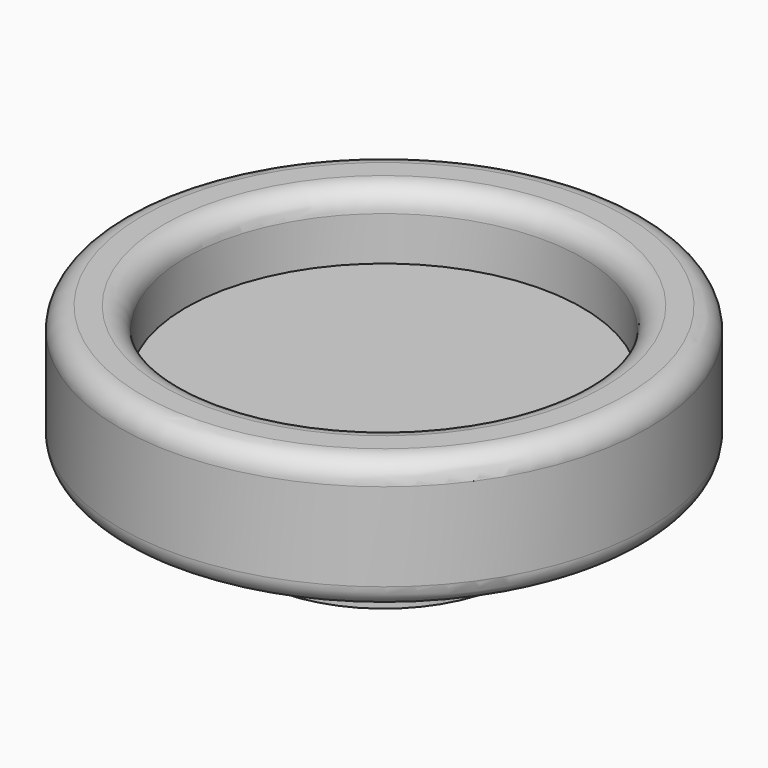
from build123d import *

# Parameters (mm, degrees)
F2_R = 50


with BuildPart() as f1:
    # F0 (on Front) → F1 (revolve)
    with BuildSketch(Plane.XZ):
        Polygon((0, -35.029411), (0, 0), (-450, 0), (-450, 150), (-600, 150), (-600, -150), (-300, -150), (-300, -300), (0, -300), align=None)
    revolve(axis=Axis((0, 0, 9.705884), (0, 0, -1)))

    # F2
    f2_edges = [f1.edges().sort_by_distance(p)[0] for p in [
        (600, 0, 150),
        (450, 0, 150),
        (600, 0, -150),
    ]]
    fillet(f2_edges, radius=F2_R)


solid = f1.part
